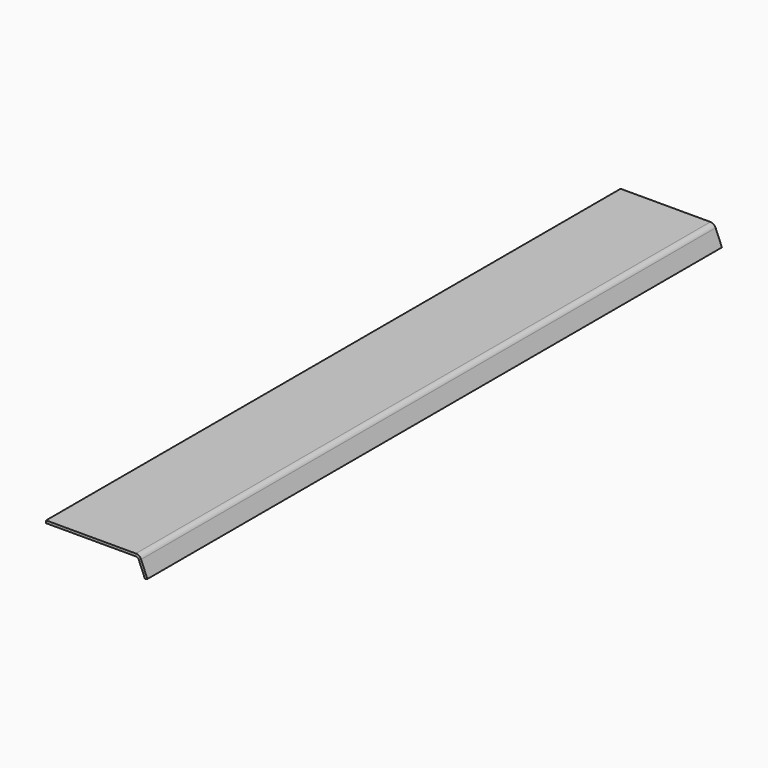
from build123d import *

# Parameters (mm, degrees)
F1_DEPTH = 1132


with BuildPart() as f1:
    # F0 (on Front) → F1 (new body)
    with BuildSketch(Plane.XZ):
        with BuildLine():
            Line((141.475341, 4), (0, 4))
            Line((0, 4), (0, 0))
            Line((0, 0), (141.475341, 0))
            ThreePointArc((141.475341, 0), (144.253192, -0.842652), (146.094738, -3.086583))
            Line((146.094738, -3.086583), (156, -27))
            Line((156, -27), (159.695518, -25.469266))
            Line((159.695518, -25.469266), (149.790256, -1.555849))
            ThreePointArc((149.790256, -1.555849), (146.475473, 2.483227), (141.475341, 4))
        make_face()
    extrude(amount=-F1_DEPTH)


solid = f1.part
